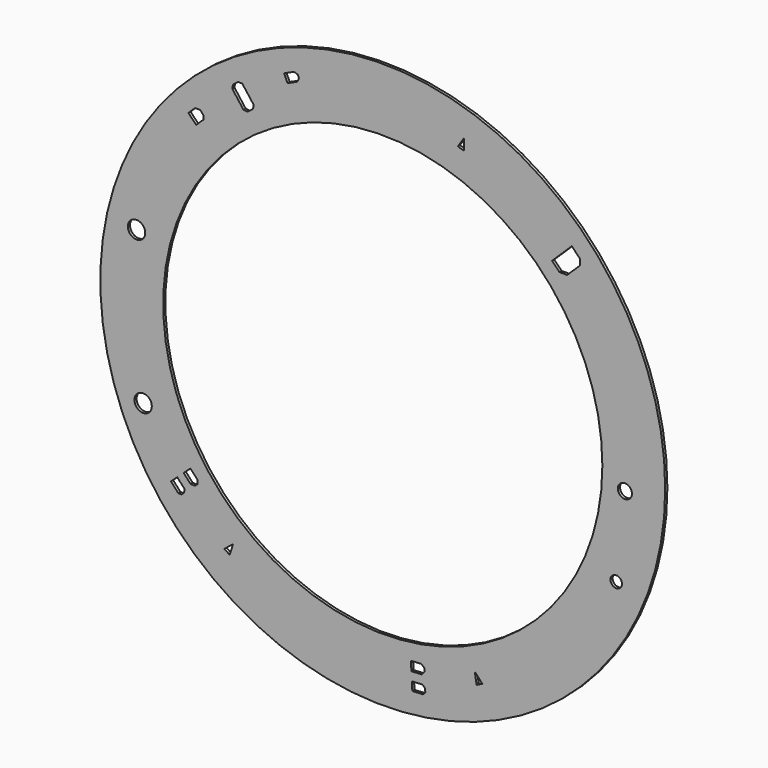
from build123d import *

# Parameters (mm, degrees)
F0_R     = 60.484024
F0_R_2   = 1.857944
F0_R_3   = 1.231078
F0_R_4   = 1.503057
F0_R_5   = 1.860203
F0_R_6   = 47.023522
F1_DEPTH = 0.5842


with BuildPart() as f1:
    # F0 (on Front) → F1 (new body)
    with BuildSketch(Plane.XZ):
        with Locations((-0.87047, 1.431183)):
            Circle(F0_R)
        Polygon((-33.661214, -41.327737), (-34.816182, -40.572207), (-32.925395, -39.062095), align=None, mode=Mode.SUBTRACT)
        Polygon((-44.669935, -33.26607), (-46.227039, -31.560669), (-44.889437, -30.339381), (-43.351587, -32.023694), (-43.397581, -32.780638), (-43.975461, -33.308268), align=None, mode=Mode.SUBTRACT)
        Polygon((-43.51196, -29.081685), (-42.066955, -27.762334), (-40.572824, -29.398765), (-40.572824, -30.267297), (-41.059114, -30.711301), (-42.024051, -30.711301), align=None, mode=Mode.SUBTRACT)
        with Locations((-52.189951, -18.748664)):
            Circle(F0_R_2, mode=Mode.SUBTRACT)
        Polygon((7.762383, -54.160422), (5.456372, -54.284047), (5.359409, -52.475368), (7.636905, -52.353271), (8.193268, -52.868575), (8.235159, -53.649974), align=None, mode=Mode.SUBTRACT)
        Polygon((5.259555, -50.61277), (5.154805, -48.658863), (7.367556, -48.540237), (8.039385, -49.090685), (8.074636, -49.748238), (7.46309, -50.494638), align=None, mode=Mode.SUBTRACT)
        Polygon((20.4402, -48.041783), (19.209783, -48.666963), (18.842109, -46.275241), align=None, mode=Mode.SUBTRACT)
        with Locations((49.120895, -19.482746)):
            Circle(F0_R_3, mode=Mode.SUBTRACT)
        with Locations((50.975903, -1.797844)):
            Circle(F0_R_4, mode=Mode.SUBTRACT)
        with Locations((-53.600651, 13.479321)):
            Circle(F0_R_5, mode=Mode.SUBTRACT)
        Polygon((-40.821819, 37.38746), (-42.493709, 39.108889), (-41.070271, 40.491362), (-39.992348, 40.491362), (-39.239747, 39.716461), (-39.239747, 38.924003), align=None, mode=Mode.SUBTRACT)
        Polygon((-33.111858, 46.735254), (-32.934913, 47.57465), (-31.800179, 48.434297), (-30.942357, 48.378815), (-28.503878, 45.160023), (-28.678401, 44.31355), (-29.813135, 43.453903), (-30.673289, 43.516344), align=None, mode=Mode.SUBTRACT)
        Polygon((-21.250698, 51.614375), (-22.005686, 53.238039), (-19.878819, 54.227012), (-19.075095, 53.960492), (-18.80575, 53.381244), (-19.123831, 52.603349), align=None, mode=Mode.SUBTRACT)
        with Locations((-0.87047, 1.431183)):
            Circle(F0_R_6, mode=Mode.SUBTRACT)
        Polygon((16.535261, 51.190067), (15.203397, 51.551891), (16.535261, 53.572202), align=None, mode=Mode.SUBTRACT)
        Polygon((35.386443, 36.557527), (39.605447, 40.687334), (41.380069, 38.874383), (41.381807, 37.635544), (38.628187, 34.94014), (36.969636, 34.94014), align=None, mode=Mode.SUBTRACT)
    extrude(amount=F1_DEPTH)


solid = f1.part
